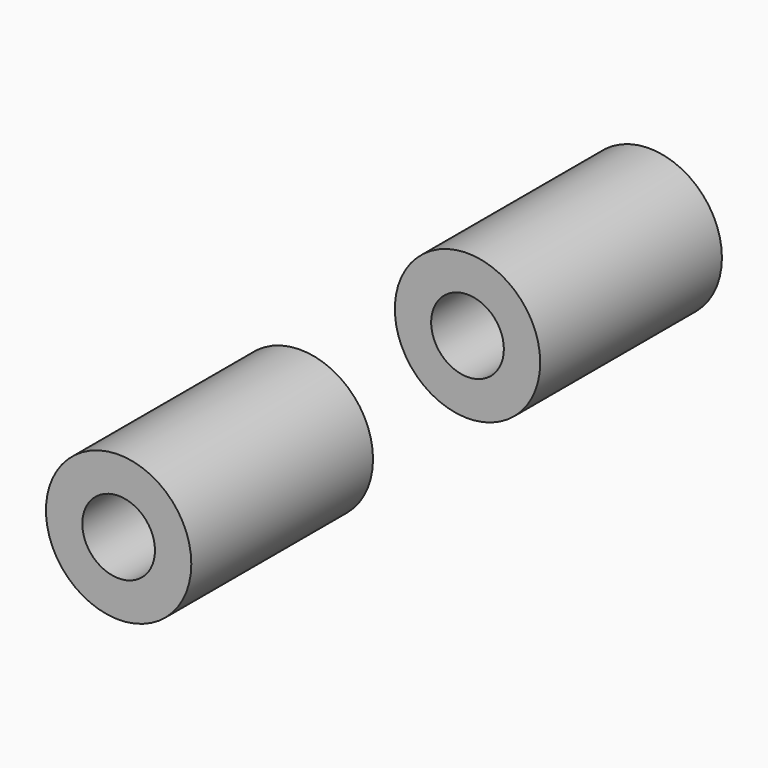
from build123d import *

# Parameters (mm, degrees)
LM8UU_0_INT001_R          = 4
LM8UU_0_INT001_DEPTH      = 27
LM8UU_0_INT001_ROLL_ANGLE = -90
LM8UU_0_EXT001_R          = 8
LM8UU_0_EXT001_DEPTH      = 25
LM8UU_0_EXT001_ROLL_ANGLE = -90


with BuildPart() as lm8uu_0_int001:
    # lm8uu_0_int001 → lm8uu_0_int001 (new body)
    with BuildSketch(Plane.XY):
        Circle(LM8UU_0_INT001_R)
    extrude(amount=LM8UU_0_INT001_DEPTH)


with BuildPart() as lm8uu_0_int001_1:
    # lm8uu_0_int001 roll: moved
    add(lm8uu_0_int001.part.rotate(Axis((0, 0, 0), (1, 0, 0)), LM8UU_0_INT001_ROLL_ANGLE))


with BuildPart() as lm8uu_0_int001_2:
    # lm8uu_0_int001 placement: moved
    add(lm8uu_0_int001_1.part.moved(Location((0, -37.5, 0))))


with BuildPart() as lm8uu_0001_body:
    # lm8uu_0_ext001 → lm8uu_0_ext001 (new body)
    with BuildSketch(Plane.XY):
        Circle(LM8UU_0_EXT001_R)
    extrude(amount=LM8UU_0_EXT001_DEPTH)


with BuildPart() as lm8uu_0001_body_1:
    # lm8uu_0_ext001 roll: moved
    add(lm8uu_0001_body.part.rotate(Axis((0, 0, 0), (1, 0, 0)), LM8UU_0_EXT001_ROLL_ANGLE))


with BuildPart() as lm8uu_0001_body_2:
    # lm8uu_0_ext001 placement: moved
    add(lm8uu_0001_body_1.part.moved(Location((0, -36.5, 0))))

    # lm8uu_0001: cut lm8uu_0_int001
    add(lm8uu_0_int001_2.part, mode=Mode.SUBTRACT)


with BuildPart() as clone016:
    # Clone016 base: copy of lm8uu_0001 body
    add(lm8uu_0001_body_2.part)


with BuildPart() as clone016_1:
    # Clone016 placement: moved
    add(clone016.part.moved(Location((0, 48, 0))))


with BuildPart() as obj1:
    # obj1 base: copy of lm8uu_0001 body
    add(lm8uu_0001_body_2.part)

    # obj1: union Clone016
    add(clone016_1.part)


with BuildPart() as obj1_1:
    # obj1 placement: moved
    add(obj1.part.moved(Location((85.25, 0, 0))))


solid = obj1_1.part
